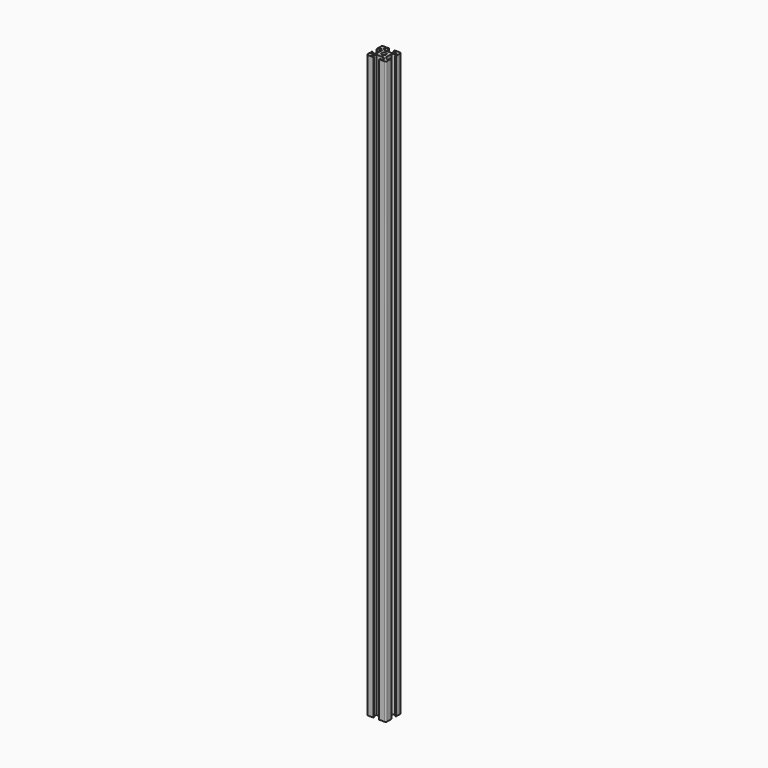
from build123d import *

# Parameters (mm, degrees)
SKETCH_R  = 2.25
PAD_DEPTH = 600
FILLET_R  = 1.5


with BuildPart() as part:
    # Sketch → Pad (new body)
    with BuildSketch(Plane(origin=(0, 0, 0), x_dir=(1, 0, 0), z_dir=(0, 0, -1))):
        Polygon((7, 0), (7, -1), (4, -1), (4, -2.5), (6.499998, -5), (13.500002, -5), (16, -2.5), (16, -1), (13, -1), (13, 0), (20, 0), (20, -7), (19, -7), (19, -4), (17.5, -4), (15.000002, -6.5), (15.000002, -13.500005), (17.5, -16.000005), (19, -16.000005), (19, -13.000005), (20, -13.000005), (20, -20.000005), (13, -20.000005), (13, -19.000005), (16, -19.000005), (16, -17.500005), (13.500002, -15.000005), (6.499998, -15.000005), (4, -17.500005), (4, -19.000005), (7, -19.000005), (7, -20.000005), (0, -20.000005), (0, -13.000005), (1, -13.000005), (1, -16.000005), (2.5, -16.000005), (4.999998, -13.500005), (4.999998, -6.5), (2.5, -4), (1, -4), (1, -7), (0, -7), (0, 0), align=None)
        with Locations((10, -10.000002)):
            Circle(SKETCH_R, mode=Mode.SUBTRACT)
    extrude(amount=PAD_DEPTH)

    # Fillet
    fillet_edges = [part.edges().sort_by_distance(p)[0] for p in [
        (20, 20.000005, -300),
        (20, 0, -300),
        (0, 20.000005, -300),
        (0, 0, -300),
    ]]
    fillet(fillet_edges, radius=FILLET_R)


solid = part.part
